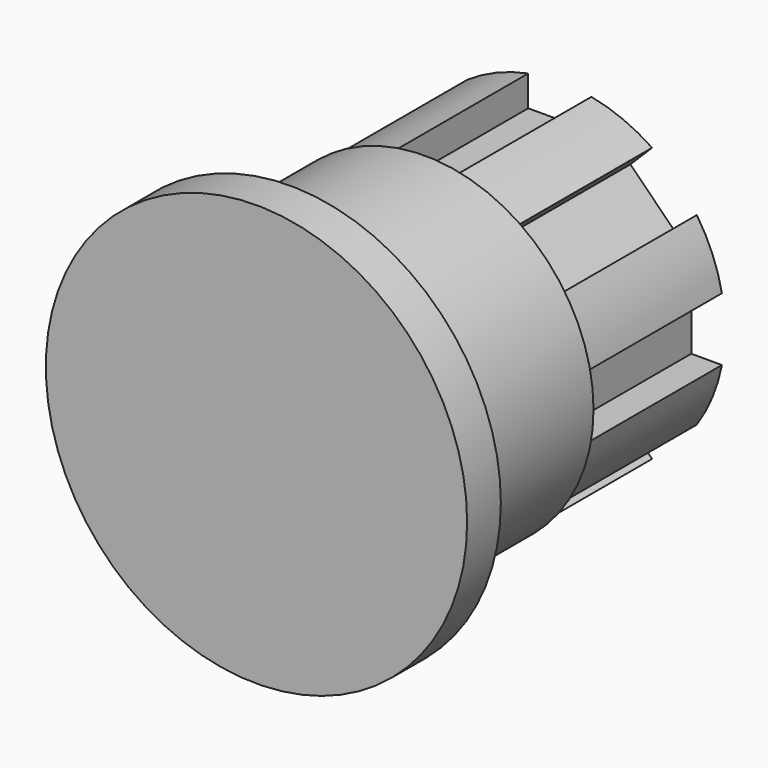
from build123d import *

# Parameters (mm, degrees)
F1_DEPTH = 6.35
F2_R     = 6.35
F3_DEPTH = 6.35
F4_R     = 7.9375
F4_R_2   = 6.35
F5_DEPTH = 1.5875


with BuildPart() as f1:
    # F0 (on Front) → F1 (new body)
    with BuildSketch(Plane.XZ):
        with BuildLine():
            Line((-1.190625, 4.953), (-1.190625, 6.108039))
            ThreePointArc((-1.190625, 6.108039), (-2.381439, 5.749302), (-3.477137, 5.160935))
            Line((-3.477137, 5.160935), (-2.660401, 4.344199))
            Line((-2.660401, 4.344199), (-4.344199, 2.660401))
            Line((-4.344199, 2.660401), (-5.160935, 3.477137))
            ThreePointArc((-5.160935, 3.477137), (-5.749302, 2.381439), (-6.108039, 1.190625))
            Line((-6.108039, 1.190625), (-4.953, 1.190625))
            Line((-4.953, 1.190625), (-4.953, -1.190625))
            Line((-4.953, -1.190625), (-6.108039, -1.190625))
            ThreePointArc((-6.108039, -1.190625), (-5.749302, -2.381439), (-5.160935, -3.477137))
            Line((-5.160935, -3.477137), (-4.344199, -2.660401))
            Line((-4.344199, -2.660401), (-2.660401, -4.344199))
            Line((-2.660401, -4.344199), (-3.477137, -5.160935))
            ThreePointArc((-3.477137, -5.160935), (-2.381439, -5.749302), (-1.190625, -6.108039))
            Line((-1.190625, -6.108039), (-1.190625, -4.953))
            Line((-1.190625, -4.953), (1.190625, -4.953))
            Line((1.190625, -4.953), (1.190625, -6.108039))
            ThreePointArc((1.190625, -6.108039), (2.381439, -5.749302), (3.477137, -5.160935))
            Line((3.477137, -5.160935), (2.660401, -4.344199))
            Line((2.660401, -4.344199), (4.344199, -2.660401))
            Line((4.344199, -2.660401), (5.160935, -3.477137))
            ThreePointArc((5.160935, -3.477137), (5.749302, -2.381439), (6.108039, -1.190625))
            Line((6.108039, -1.190625), (4.953, -1.190625))
            Line((4.953, -1.190625), (4.953, 1.190625))
            Line((4.953, 1.190625), (6.108039, 1.190625))
            ThreePointArc((6.108039, 1.190625), (5.749302, 2.381439), (5.160935, 3.477137))
            Line((5.160935, 3.477137), (4.344199, 2.660401))
            Line((4.344199, 2.660401), (2.660401, 4.344199))
            Line((2.660401, 4.344199), (3.477137, 5.160935))
            ThreePointArc((3.477137, 5.160935), (2.381439, 5.749302), (1.190625, 6.108039))
            Line((1.190625, 6.108039), (1.190625, 4.953))
            Line((1.190625, 4.953), (-1.190625, 4.953))
        make_face()
    extrude(amount=F1_DEPTH)

    # F2 (on face) → F3 (join)
    with BuildSketch(Plane.XZ.offset(6.35)):
        Circle(F2_R)
        with BuildLine():
            Line((-3.477137, -5.160935), (-2.660401, -4.344199))
            Line((-2.660401, -4.344199), (-4.344199, -2.660401))
            Line((-4.344199, -2.660401), (-5.160935, -3.477137))
            ThreePointArc((-5.160935, -3.477137), (-5.749302, -2.381439), (-6.108039, -1.190625))
            Line((-6.108039, -1.190625), (-4.953, -1.190625))
            Line((-4.953, -1.190625), (-4.953, 1.190625))
            Line((-4.953, 1.190625), (-6.108039, 1.190625))
            ThreePointArc((-6.108039, 1.190625), (-5.749302, 2.381439), (-5.160935, 3.477137))
            Line((-5.160935, 3.477137), (-4.344199, 2.660401))
            Line((-4.344199, 2.660401), (-2.660401, 4.344199))
            Line((-2.660401, 4.344199), (-3.477137, 5.160935))
            ThreePointArc((-3.477137, 5.160935), (-2.381439, 5.749302), (-1.190625, 6.108039))
            Line((-1.190625, 6.108039), (-1.190625, 4.953))
            Line((-1.190625, 4.953), (1.190625, 4.953))
            Line((1.190625, 4.953), (1.190625, 6.108039))
            ThreePointArc((1.190625, 6.108039), (2.381439, 5.749302), (3.477137, 5.160935))
            Line((3.477137, 5.160935), (2.660401, 4.344199))
            Line((2.660401, 4.344199), (4.344199, 2.660401))
            Line((4.344199, 2.660401), (5.160935, 3.477137))
            ThreePointArc((5.160935, 3.477137), (5.749302, 2.381439), (6.108039, 1.190625))
            Line((6.108039, 1.190625), (4.953, 1.190625))
            Line((4.953, 1.190625), (4.953, -1.190625))
            Line((4.953, -1.190625), (6.108039, -1.190625))
            ThreePointArc((6.108039, -1.190625), (5.749302, -2.381439), (5.160935, -3.477137))
            Line((5.160935, -3.477137), (4.344199, -2.660401))
            Line((4.344199, -2.660401), (2.660401, -4.344199))
            Line((2.660401, -4.344199), (3.477137, -5.160935))
            ThreePointArc((3.477137, -5.160935), (2.381439, -5.749302), (1.190625, -6.108039))
            Line((1.190625, -6.108039), (1.190625, -4.953))
            Line((1.190625, -4.953), (-1.190625, -4.953))
            Line((-1.190625, -4.953), (-1.190625, -6.108039))
            ThreePointArc((-1.190625, -6.108039), (-2.381439, -5.749302), (-3.477137, -5.160935))
        make_face(mode=Mode.SUBTRACT)
        with BuildLine():
            Line((-4.344199, -2.660401), (-2.660401, -4.344199))
            Line((-2.660401, -4.344199), (-3.477137, -5.160935))
            ThreePointArc((-3.477137, -5.160935), (-2.381439, -5.749302), (-1.190625, -6.108039))
            Line((-1.190625, -6.108039), (-1.190625, -4.953))
            Line((-1.190625, -4.953), (1.190625, -4.953))
            Line((1.190625, -4.953), (1.190625, -6.108039))
            ThreePointArc((1.190625, -6.108039), (2.381439, -5.749302), (3.477137, -5.160935))
            Line((3.477137, -5.160935), (2.660401, -4.344199))
            Line((2.660401, -4.344199), (4.344199, -2.660401))
            Line((4.344199, -2.660401), (5.160935, -3.477137))
            ThreePointArc((5.160935, -3.477137), (5.749302, -2.381439), (6.108039, -1.190625))
            Line((6.108039, -1.190625), (4.953, -1.190625))
            Line((4.953, -1.190625), (4.953, 1.190625))
            Line((4.953, 1.190625), (6.108039, 1.190625))
            ThreePointArc((6.108039, 1.190625), (5.749302, 2.381439), (5.160935, 3.477137))
            Line((5.160935, 3.477137), (4.344199, 2.660401))
            Line((4.344199, 2.660401), (2.660401, 4.344199))
            Line((2.660401, 4.344199), (3.477137, 5.160935))
            ThreePointArc((3.477137, 5.160935), (2.381439, 5.749302), (1.190625, 6.108039))
            Line((1.190625, 6.108039), (1.190625, 4.953))
            Line((1.190625, 4.953), (-1.190625, 4.953))
            Line((-1.190625, 4.953), (-1.190625, 6.108039))
            ThreePointArc((-1.190625, 6.108039), (-2.381439, 5.749302), (-3.477137, 5.160935))
            Line((-3.477137, 5.160935), (-2.660401, 4.344199))
            Line((-2.660401, 4.344199), (-4.344199, 2.660401))
            Line((-4.344199, 2.660401), (-5.160935, 3.477137))
            ThreePointArc((-5.160935, 3.477137), (-5.749302, 2.381439), (-6.108039, 1.190625))
            Line((-6.108039, 1.190625), (-4.953, 1.190625))
            Line((-4.953, 1.190625), (-4.953, -1.190625))
            Line((-4.953, -1.190625), (-6.108039, -1.190625))
            ThreePointArc((-6.108039, -1.190625), (-5.749302, -2.381439), (-5.160935, -3.477137))
            Line((-5.160935, -3.477137), (-4.344199, -2.660401))
        make_face()
    extrude(amount=F3_DEPTH)

    # F4 (on face) → F5 (join)
    with BuildSketch(Plane.XZ.offset(12.7)):
        Circle(F4_R)
        Circle(F4_R_2, mode=Mode.SUBTRACT)
        Circle(F4_R_2)
    extrude(amount=F5_DEPTH)


solid = f1.part
